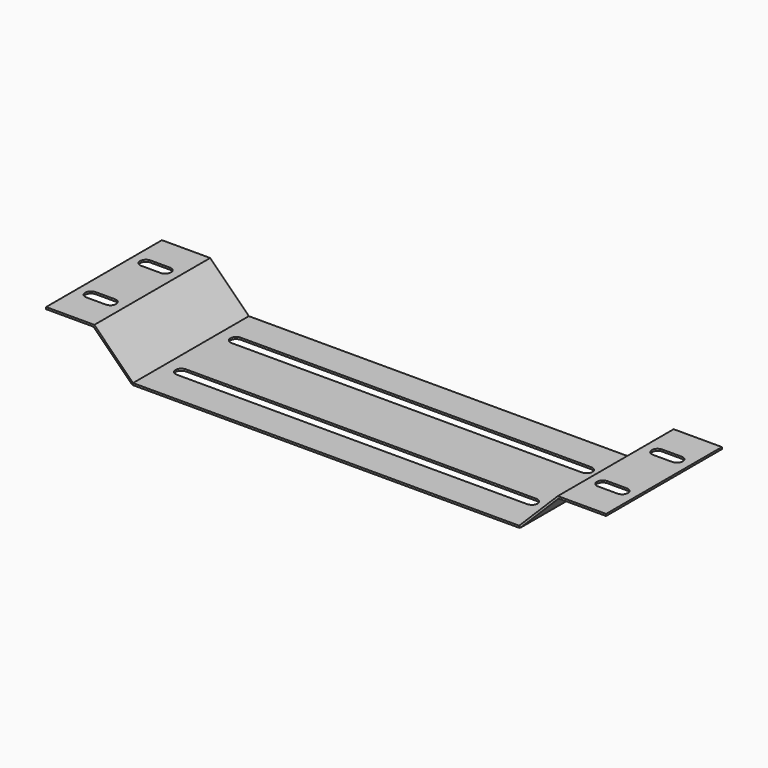
from build123d import *

# Parameters (mm, degrees)
F0_W      = 400
F0_H      = 150
F1_DEPTH  = 2
F3_W      = 56.6
F3_H      = 150
F4_DEPTH  = 2
F5_ANGLE  = 30
F8_W      = 150
F8_H      = 56.6
F9_DEPTH  = 2
F11_W     = 50
F11_H     = 150
F12_DEPTH = 2
F13_DEPTH = 2


with BuildPart() as f1:
    # F0 (on Top) → F1 (new body)
    with BuildSketch(Plane.XY):
        with Locations((-69.4625508785, 54.7538047686)):
            Rectangle(F0_W, F0_H)
        with BuildLine():
            Line((-250.9625508785, 25.2538047686), (112.0374491215, 25.2538047686))
            ThreePointArc((112.0374491215, 25.2538047686), (118.0374491215, 19.2538047686), (112.0374491215, 13.2538047686))
            Line((112.0374491215, 13.2538047686), (-250.9625508785, 13.2538047686))
            ThreePointArc((-250.9625508785, 13.2538047686), (-256.9625508785, 19.2538047686), (-250.9625508785, 25.2538047686))
        make_face(mode=Mode.SUBTRACT)
        with BuildLine():
            Line((-250.9625508785, 96.2538047686), (112.0374491215, 96.2538047686))
            ThreePointArc((112.0374491215, 96.2538047686), (118.0374491215, 90.2538047686), (112.0374491215, 84.2538047686))
            Line((112.0374491215, 84.2538047686), (-250.9625508785, 84.2538047686))
            ThreePointArc((-250.9625508785, 84.2538047686), (-256.9625508785, 90.2538047686), (-250.9625508785, 96.2538047686))
        make_face(mode=Mode.SUBTRACT)
    extrude(amount=F1_DEPTH)


with BuildPart() as f4:
    # F3 (on face) → F4 (new body)
    with BuildSketch(Plane(origin=(64.2687245607, 0, -64.2687245607), x_dir=(0.7071067812, 0, 0.7071067812), z_dir=(0.7071067812, 0, -0.7071067812))):
        with Locations((122.018129035, -54.7538047686)):
            Rectangle(F3_W, F3_H)
    extrude(amount=F4_DEPTH)


with BuildPart() as f5_1:
    # F5: copy of F4
    add(f4.part.rotate(Axis((-269.4625508785, 54.7538047686, 2), (0, -1, 0)), F5_ANGLE))


with BuildPart() as f9:
    # F8 (on face) → F9 (new body)
    with BuildSketch(Plane(origin=(-133.7312754393, 0, -133.7312754393), x_dir=(0, 1, 0), z_dir=(0.7071067812, 0, 0.7071067812))):
        with Locations((54.7538047686, 220.2530105644)):
            Rectangle(F8_W, F8_H)
    extrude(amount=-F9_DEPTH)

    # F11 (on 3pt) → F12 (join)
    with BuildSketch(Plane.XY.offset(42.0222438152)):
        with Locations((-334.4847946937, 54.7538047686)):
            Rectangle(F11_W, F11_H)
        with BuildLine():
            ThreePointArc((-324.4847946937, 25.2538047686), (-318.4847946937, 19.2538047686), (-324.4847946937, 13.2538047686))
            Line((-324.4847946937, 13.2538047686), (-344.4847946937, 13.2538047686))
            ThreePointArc((-344.4847946937, 13.2538047686), (-350.4847946937, 19.2538047686), (-344.4847946937, 25.2538047686))
            Line((-344.4847946937, 25.2538047686), (-324.4847946937, 25.2538047686))
        make_face(mode=Mode.SUBTRACT)
        with BuildLine():
            ThreePointArc((-324.4847946937, 96.2538047686), (-318.4847946937, 90.2538047686), (-324.4847946937, 84.2538047686))
            Line((-324.4847946937, 84.2538047686), (-344.4847946937, 84.2538047686))
            ThreePointArc((-344.4847946937, 84.2538047686), (-350.4847946937, 90.2538047686), (-344.4847946937, 96.2538047686))
            Line((-344.4847946937, 96.2538047686), (-324.4847946937, 96.2538047686))
        make_face(mode=Mode.SUBTRACT)
    extrude(amount=-F12_DEPTH)


with BuildPart() as f4_1:
    add(f4.part)

    # F11 (on 3pt) → F13 (join)
    with BuildSketch(Plane.XY.offset(42.0222438152)):
        with Locations((195.5596929366, 54.7538047686)):
            Rectangle(F11_W, F11_H)
        with BuildLine():
            ThreePointArc((205.5596929366, 25.2538047686), (211.5596929366, 19.2538047686), (205.5596929366, 13.2538047686))
            Line((205.5596929366, 13.2538047686), (185.5596929366, 13.2538047686))
            ThreePointArc((185.5596929366, 13.2538047686), (179.5596929366, 19.2538047686), (185.5596929366, 25.2538047686))
            Line((185.5596929366, 25.2538047686), (205.5596929366, 25.2538047686))
        make_face(mode=Mode.SUBTRACT)
        with BuildLine():
            ThreePointArc((205.5596929366, 96.2538047686), (211.5596929366, 90.2538047686), (205.5596929366, 84.2538047686))
            Line((205.5596929366, 84.2538047686), (185.5596929366, 84.2538047686))
            ThreePointArc((185.5596929366, 84.2538047686), (179.5596929366, 90.2538047686), (185.5596929366, 96.2538047686))
            Line((185.5596929366, 96.2538047686), (205.5596929366, 96.2538047686))
        make_face(mode=Mode.SUBTRACT)
    extrude(amount=-F13_DEPTH)


solid = Compound([f1.part, f9.part, f4_1.part])
